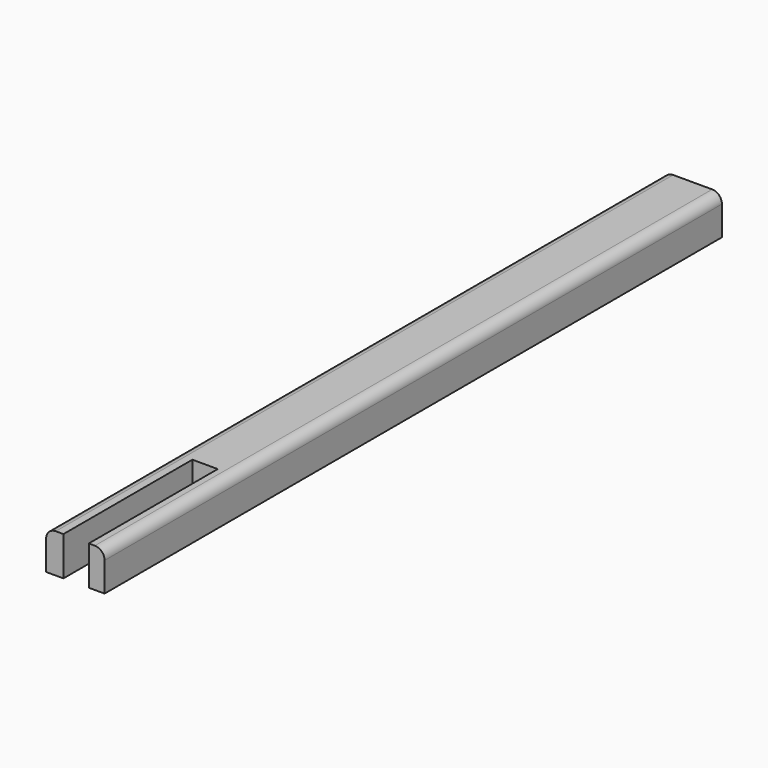
from build123d import *

# Parameters (mm, degrees)
F1_DEPTH      = 1
F1_DEPTH_BACK = 1
F2_R          = 0.5


with BuildPart() as f1:
    # F0 (on Top) → F1 (new body, two sides)
    with BuildSketch(Plane.XY) as f1_sk:
        Polygon((7, 9.248056), (7, 48.79661), (4, 48.79661), (4, 9.248056), (4.890339, 9.248056), (4.890339, 17.506754), (6.190339, 17.506754), (6.190339, 9.248056), align=None)
    extrude(amount=F1_DEPTH)
    extrude(f1_sk.sketch, amount=-F1_DEPTH_BACK)

    # F2
    f2_edges = [f1.edges().sort_by_distance(p)[0] for p in [
        (4, 29.022333, 1),
        (7, 29.022333, 1),
    ]]
    fillet(f2_edges, radius=F2_R)


solid = f1.part
